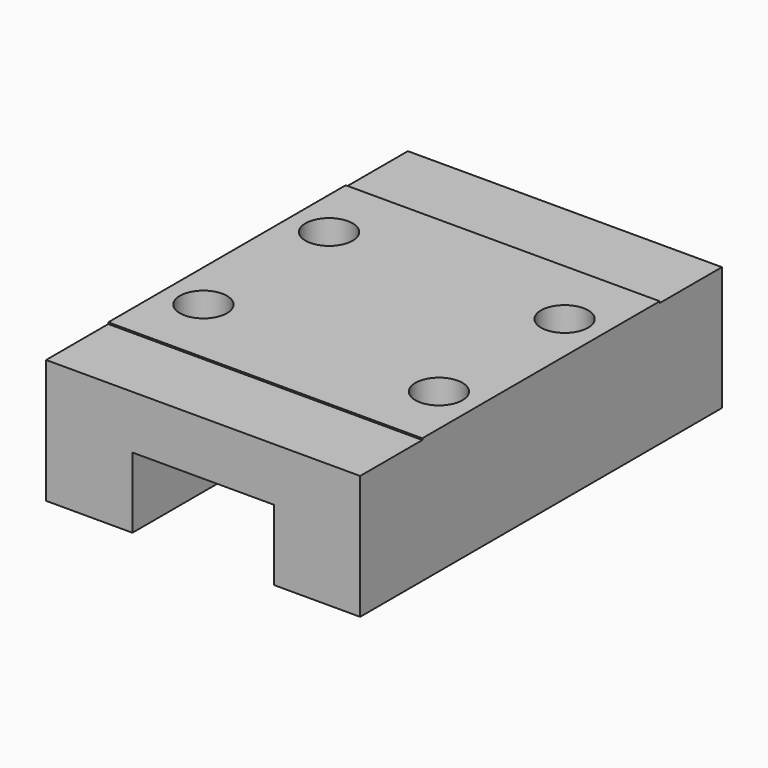
from build123d import *

# Parameters (mm, degrees)
SKETCH028_W     = 20
SKETCH028_H     = 28.8
PAD011_DEPTH    = 8
SKETCH031_W     = 9
SKETCH031_H     = 4.5
POCKET017_DEPTH = 28.8
SKETCH032_R     = 1.5
POCKET018_DEPTH = 4
SKETCH027_W     = 20
SKETCH027_H     = 4.95
POCKET019_DEPTH = 0.1


with BuildPart() as part:
    # Sketch028 → Pad011 (new body)
    with BuildSketch(Plane.XY):
        with Locations((-4.5, 14.4)):
            Rectangle(SKETCH028_W, SKETCH028_H)
    extrude(amount=PAD011_DEPTH)

    # Sketch031 (on Face1 of Pad011) → Pocket017 (cut)
    with BuildSketch(Plane.XZ):
        with Locations((-4.5, 2.25)):
            Rectangle(SKETCH031_W, SKETCH031_H)
    extrude(amount=-POCKET017_DEPTH, mode=Mode.SUBTRACT)

    # Sketch032 (on Face8 of Pocket017) → Pocket018 (cut)
    with BuildSketch(Plane.XY.offset(8)):
        with Locations((-12, 19.4)):
            Circle(SKETCH032_R)
        with Locations((3, 9.4)):
            Circle(SKETCH032_R)
        with Locations((-12, 9.4)):
            Circle(SKETCH032_R)
        with Locations((3, 19.4)):
            Circle(SKETCH032_R)
    extrude(amount=-POCKET018_DEPTH, mode=Mode.SUBTRACT)

    # Sketch027 (on Face8 of Pocket018) → Pocket019 (cut)
    with BuildSketch(Plane.XY.offset(8)):
        with Locations((-4.5, 26.325)):
            Rectangle(SKETCH027_W, SKETCH027_H)
        with Locations((-4.5, 2.475)):
            Rectangle(SKETCH027_W, SKETCH027_H)
    extrude(amount=-POCKET019_DEPTH, mode=Mode.SUBTRACT)


with BuildPart() as part_1:
    # Body010 placement: moved
    add(part.part.moved(Location((0, 100, 2))))


solid = part_1.part
